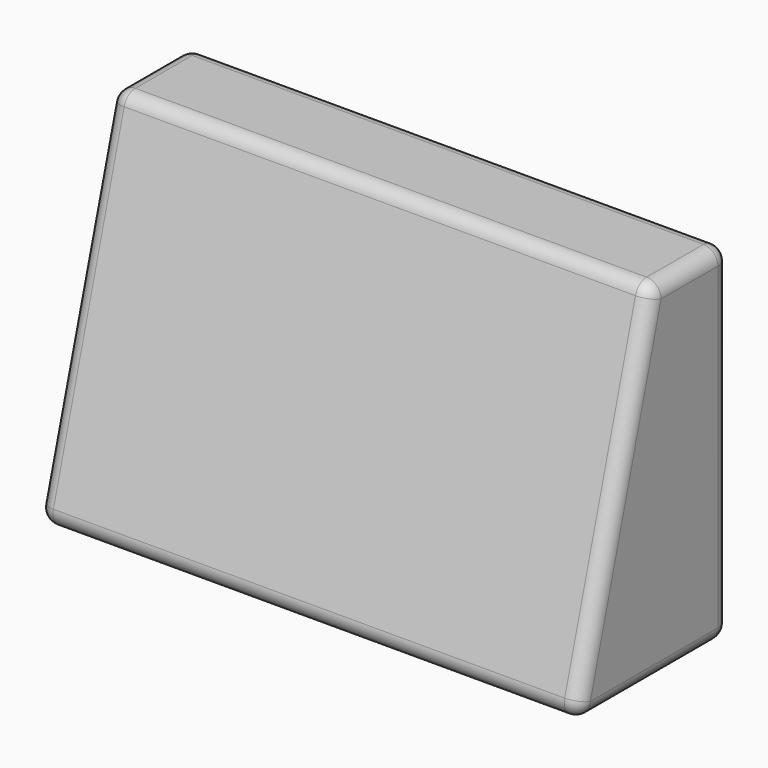
from build123d import *

# Parameters (mm, degrees)
F0_W     = 711.2
F0_H     = 254
F1_DEPTH = 457.2
F3_DEPTH = 711.201
F4_R     = 19.05


with BuildPart() as f1:
    # F0 (on Top) → F1 (new body)
    with BuildSketch(Plane.XY):
        Rectangle(F0_W, F0_H)
    extrude(amount=F1_DEPTH)

    # F2 (on face) → F3 (cut, through all)
    with BuildSketch(Plane.YZ.offset(355.6)):
        Polygon((-127, 457.2), (-127, 0), (0, 457.2), align=None)
    extrude(amount=-F3_DEPTH, mode=Mode.SUBTRACT)

    # F4
    f4_edges = [f1.edges().sort_by_distance(p)[0] for p in [
        (0, -127, 0),
        (355.6, 0, 0),
        (355.6, -63.5, 228.6),
        (-355.6, -63.5, 228.6),
        (-355.6, 0, 0),
        (-355.6, 63.5, 457.2),
        (0, 0, 457.2),
        (355.6, 63.5, 457.2),
        (355.6, 127, 228.6),
        (0, 127, 0),
        (-355.6, 127, 228.6),
        (0, 127, 457.2),
    ]]
    fillet(f4_edges, radius=F4_R)


solid = f1.part
